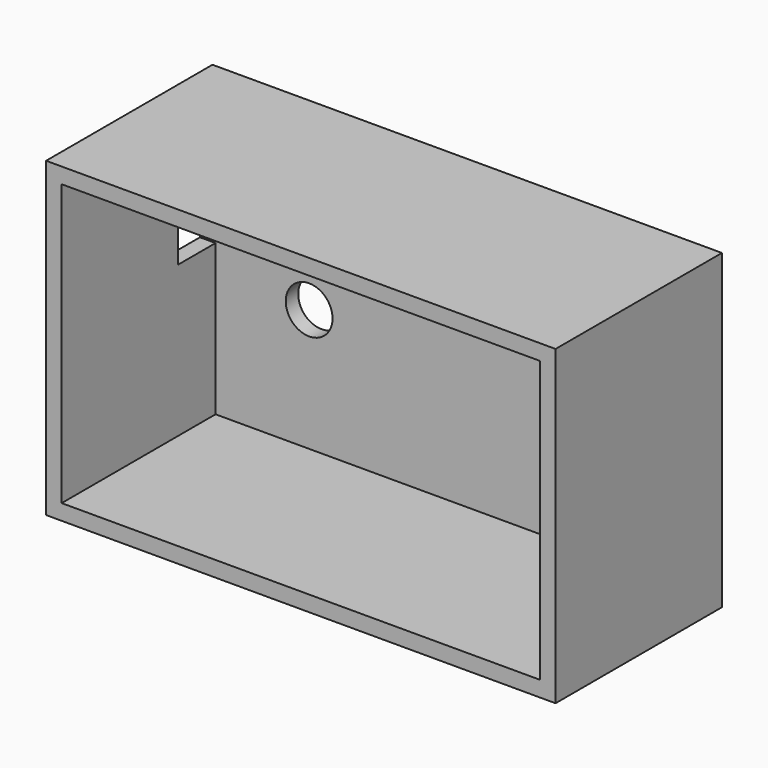
from build123d import *

# Parameters (mm, degrees)
F0_W     = 49
F0_H     = 30
F1_DEPTH = 20
F2_T     = -1.5
F3_R     = 2.25
F4_DEPTH = 1.5
F5_W     = 4.5
F5_H     = 6
F6_DEPTH = 1.5


with BuildPart() as f1:
    # F0 (on Front) → F1 (new body)
    with BuildSketch(Plane.XZ):
        with Locations((1.226867, 1.730894)):
            Rectangle(F0_W, F0_H)
    extrude(amount=F1_DEPTH)

    # F2
    f2_openings = [f1.faces().sort_by_distance(p)[0] for p in [
        (1.226867, -20, 1.730894),
    ]]
    offset(amount=F2_T, openings=f2_openings)

    # F3 (on face) → F4 (cut, through all)
    with BuildSketch(Plane.XZ.offset(1.5)):
        with Locations((-12.773133, 0)):
            Circle(F3_R)
        with Locations((17.226867, 0)):
            Circle(F3_R)
    extrude(amount=-F4_DEPTH, mode=Mode.SUBTRACT)

    # F5 (on face) → F6 (cut, through all)
    with BuildSketch(Plane(origin=(-23.273133, 0, 0), x_dir=(0, -1, 0), z_dir=(-1, 0, 0))):
        with Locations((3.75, 5.730894)):
            Rectangle(F5_W, F5_H)
    extrude(amount=-F6_DEPTH, mode=Mode.SUBTRACT)


solid = f1.part
